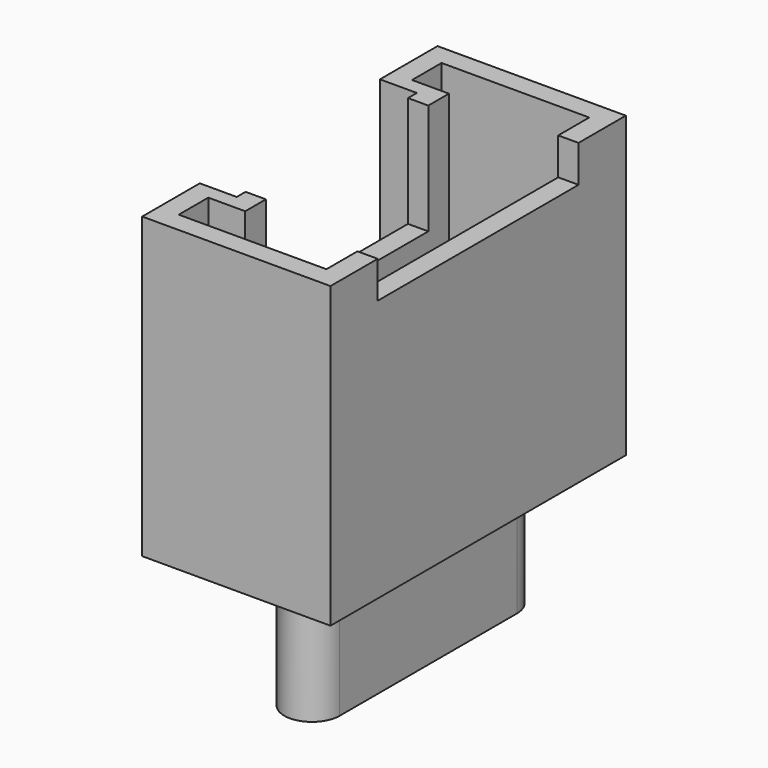
from build123d import *

# Parameters (mm, degrees)
PAD005_DEPTH            = 8.1
POCKET003_DEPTH         = 7
SKETCH010_W             = 6.8
SKETCH010_H             = 5
POCKET004_DEPTH         = 1
SKETCH011_W             = 5.5
SKETCH011_H             = 3
POCKET005_DEPTH         = 3
PAD006_DEPTH            = 4
PAD007_DEPTH            = 3.4
BODY005_PLACEMENT_ANGLE = 270


with BuildPart() as part:
    # Sketch008 → Pad005 (new body)
    with BuildSketch(Plane.XY):
        Polygon((-5, 0), (-3.05, 0), (-3.05, 1), (3.05, 1), (3.05, 0), (5, 0), (5, 5.1), (-5, 5.1), align=None)
    extrude(amount=PAD005_DEPTH)

    # Sketch009 (on Face10 of Pad005) → Pocket003 (cut)
    with BuildSketch(Plane.XY.offset(8.1)):
        Polygon((-4.45, 0.55), (-3.45, 0.55), (-3.45, 1.55), (3.45, 1.55), (3.45, 0.55), (4.45, 0.55), (4.45, 4.55), (-4.45, 4.55), align=None)
    extrude(amount=-POCKET003_DEPTH, mode=Mode.SUBTRACT)

    # Sketch010 (on Face5 of Pocket003) → Pocket004 (cut)
    with BuildSketch(Plane.XY.offset(8.1)):
        with Locations((0, 5.5)):
            Rectangle(SKETCH010_W, SKETCH010_H)
    extrude(amount=-POCKET004_DEPTH, mode=Mode.SUBTRACT)

    # Sketch011 (on Face5 of Pocket004) → Pocket005 (cut)
    with BuildSketch(Plane.XY.offset(8.1)):
        with Locations((0, 1.5)):
            Rectangle(SKETCH011_W, SKETCH011_H)
    extrude(amount=-POCKET005_DEPTH, mode=Mode.SUBTRACT)

    # Sketch012 (on Face26 of Pocket005) → Pad006 (join)
    with BuildSketch(Plane.XY.offset(1.1)):
        with BuildLine():
            ThreePointArc((-3.4, 3.25), (-3.65, 3), (-3.4, 2.75))
            Line((-3.4, 2.75), (3.4, 2.75))
            ThreePointArc((3.4, 2.75), (3.65, 3), (3.4, 3.25))
            Line((-3.4, 3.25), (3.4, 3.25))
        make_face()
    extrude(amount=PAD006_DEPTH)

    # Sketch013 → Pad007 (join)
    with BuildSketch(Plane.XY):
        with BuildLine():
            ThreePointArc((-3, 3.75), (-3.75, 3), (-3, 2.25))
            Line((-3, 2.25), (3, 2.25))
            ThreePointArc((3, 2.25), (3.75, 3), (3, 3.75))
            Line((-3, 3.75), (3, 3.75))
        make_face()
    extrude(amount=-PAD007_DEPTH)


with BuildPart() as part_1:
    # Body005 placement: moved
    add(part.part.moved(Location((-8.8, 0, 1.6))).rotate(Axis((-8.8, 0, 1.6), (0, 0, 1)), BODY005_PLACEMENT_ANGLE))


solid = part_1.part
